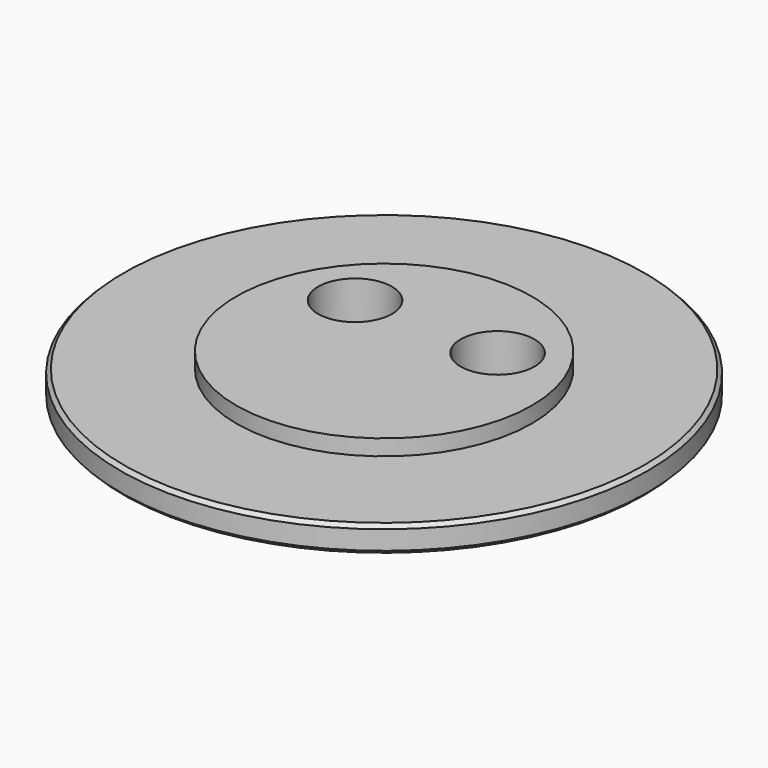
from build123d import *

# Parameters (mm, degrees)
F0_R     = 50
F0_R_2   = 7
F1_DEPTH = 5
F2_SIZE  = 0.7
F3_R     = 28
F4_DEPTH = 3
F5_DEPTH = 3


with BuildPart() as f1:
    # F0 (on Top) → F1 (new body)
    with BuildSketch(Plane.XY):
        Circle(F0_R)
        with Locations((-13.5, 10)):
            Circle(F0_R_2, mode=Mode.SUBTRACT)
        with Locations((13.5, 10)):
            Circle(F0_R_2, mode=Mode.SUBTRACT)
    extrude(amount=F1_DEPTH)

    # F2
    f2_edges = [f1.edges().sort_by_distance(p)[0] for p in [
        (-50, 0, 0),
        (50, 0, 2.5),
        (-50, 0, 5),
    ]]
    chamfer(f2_edges, length=F2_SIZE)

    # F3 (on face) → F4 (join)
    with BuildSketch(Plane.XY.offset(5)):
        Circle(F3_R)
    extrude(amount=F4_DEPTH)

    # F5 (cut, through all): faces of the model
    f5_faces = [f1.faces().sort_by_distance(p)[0] for p in [
        (-13.5, 10, 5),
        (13.5, 10, 5),
    ]]
    extrude(f5_faces, amount=-F5_DEPTH, mode=Mode.SUBTRACT)


solid = f1.part
